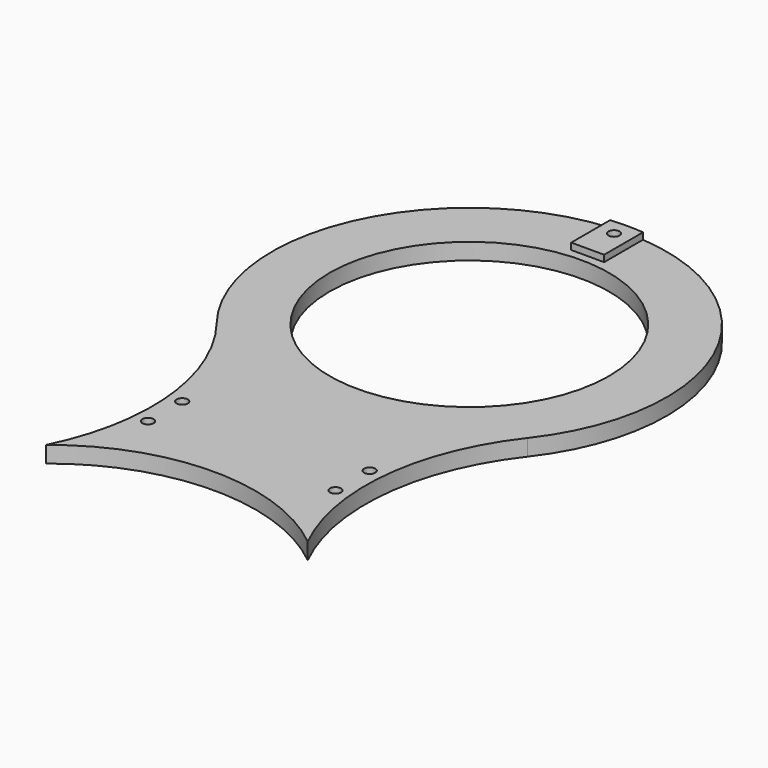
from build123d import *

# Parameters (mm, degrees)
SKETCH_R        = 42.5
PAD_DEPTH       = 5
PAD001_DEPTH    = 2
SKETCH002_R     = 1.7
POCKET_DEPTH    = 7.001
SKETCH003_R     = 2.95
POCKET001_DEPTH = 3


with BuildPart() as part:
    # Sketch → Pad (new body)
    with BuildSketch(Plane.XY):
        with BuildLine():
            ThreePointArc((39.782879, 48.85), (0, 63), (-39.782879, 48.85))
            ThreePointArc((-39.782879, 48.85), (-32.825456, 87.047566), (-47.293763, 123.077108))
            ThreePointArc((47.293763, 123.077108), (0, 220), (-47.293763, 123.077108))
            ThreePointArc((47.293763, 123.077108), (32.825456, 87.047566), (39.782879, 48.85))
        make_face()
        with Locations((0, 160)):
            Circle(SKETCH_R, mode=Mode.SUBTRACT)
    extrude(amount=PAD_DEPTH)

    # Sketch001 (on Face7 of Pad) → Pad001 (join)
    with BuildSketch(Plane.XY.offset(5)):
        with BuildLine():
            ThreePointArc((5, 219.791304), (0, 220), (-5, 219.791304))
            Line((-5, 219.791304), (-5, 205))
            Line((-5, 205), (5, 205))
            Line((5, 205), (5, 219.791304))
        make_face()
    extrude(amount=PAD001_DEPTH)

    # Sketch002 (on Face10 of Pad001) → Pocket (cut, through all)
    with BuildSketch(Plane.XY.offset(7)):
        with Locations((0, 215)):
            Circle(SKETCH002_R)
        with Locations((28.5, 73.5)):
            Circle(SKETCH002_R)
        with Locations((28.5, 86.5)):
            Circle(SKETCH002_R)
        with Locations((-28.5, 86.5)):
            Circle(SKETCH002_R)
        with Locations((-28.5, 73.5)):
            Circle(SKETCH002_R)
    extrude(amount=-POCKET_DEPTH, mode=Mode.SUBTRACT)

    # Sketch003 (on Face4 of Pocket) → Pocket001 (cut)
    with BuildSketch(Plane(origin=(0, 0, 0), x_dir=(1, 0, 0), z_dir=(0, 0, -1))):
        with Locations((0, -215)):
            Circle(SKETCH003_R)
    extrude(amount=-POCKET001_DEPTH, mode=Mode.SUBTRACT)


solid = part.part
